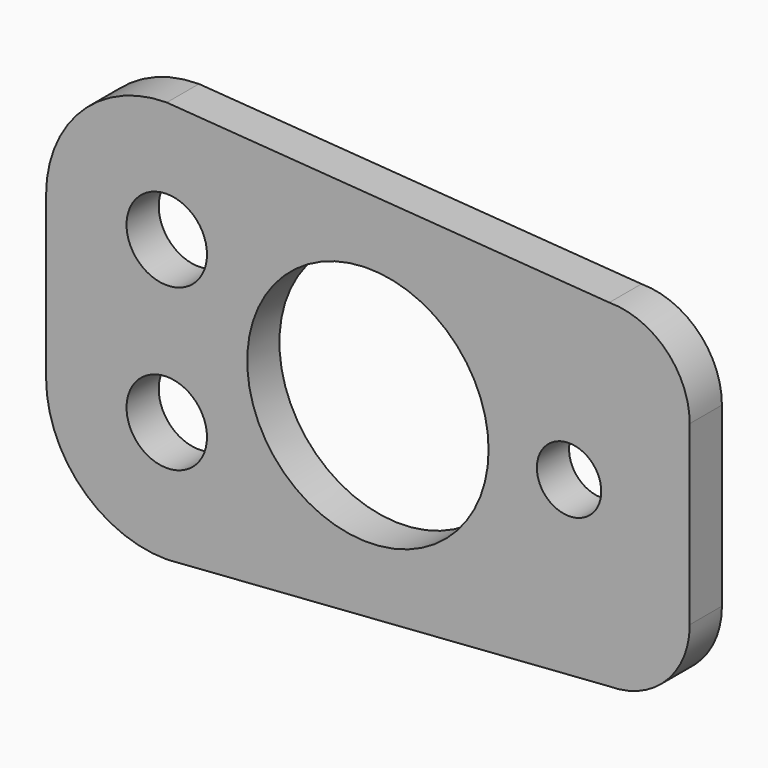
from build123d import *

# Parameters (mm, degrees)
F0_R     = 5
F0_R_2   = 15
F0_R_3   = 4
F1_DEPTH = 5


with BuildPart() as f1:
    # F0 (on Front) → F1 (new body)
    with BuildSketch(Plane.XZ):
        with BuildLine():
            Line((-40, 10), (-40, 0))
            Line((-40, 0), (-40, -10))
            ThreePointArc((-40, -10), (-35.606602, -20.606602), (-25, -25))
            Line((-25, -25), (30, -21))
            ThreePointArc((30, -21), (37.071068, -18.071068), (40, -11))
            Line((40, -11), (40, 0))
            Line((40, 0), (40, 11))
            ThreePointArc((40, 11), (37.071068, 18.071068), (30, 21))
            Line((30, 21), (-25, 25))
            ThreePointArc((-25, 25), (-35.606602, 20.606602), (-40, 10))
        make_face()
        with Locations((-25, -10)):
            Circle(F0_R, mode=Mode.SUBTRACT)
        with Locations((-25, 10)):
            Circle(F0_R, mode=Mode.SUBTRACT)
        Circle(F0_R_2, mode=Mode.SUBTRACT)
        with Locations((25, 0)):
            Circle(F0_R_3, mode=Mode.SUBTRACT)
    extrude(amount=F1_DEPTH)


solid = f1.part
